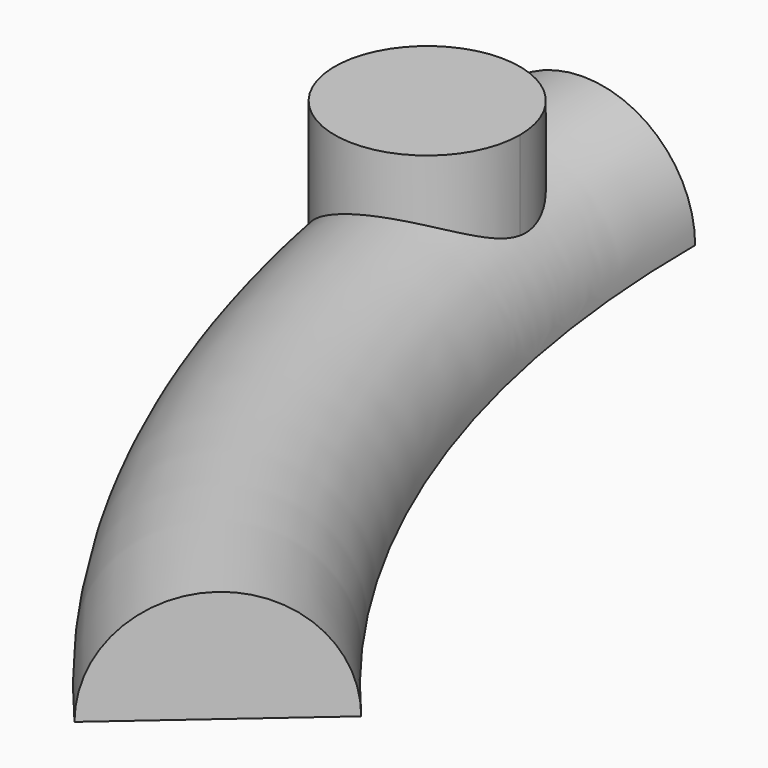
from build123d import *

# Parameters (mm, degrees)
F1_DEPTH = 38.1


with BuildPart() as f1:
    # F0 (on Top) → F1 (new body)
    with BuildSketch(Plane.XY):
        with BuildLine():
            ThreePointArc((0, -22.908895), (-14.689808, -58.373229), (20.774525, -43.683421))
            ThreePointArc((20.774525, -43.683421), (14.689808, -28.993613), (0, -22.908895))
        make_face()
    extrude(amount=F1_DEPTH)

    # F4: sweep along a path in F2
    with BuildLine(Plane.XY) as f4_path:
        ThreePointArc((72.136711, -192.550732), (18.626108, -102.809884), (0, 0))
    # F3 (on Front) → F4 (sweep)
    with BuildSketch(Plane.XZ):
        with BuildLine():
            Line((-25.131127, 0), (25.131127, 0))
            ThreePointArc((25.131127, 0), (0, 25.131127), (-25.131127, 0))
        make_face()
    sweep(path=f4_path.line)


solid = f1.part
